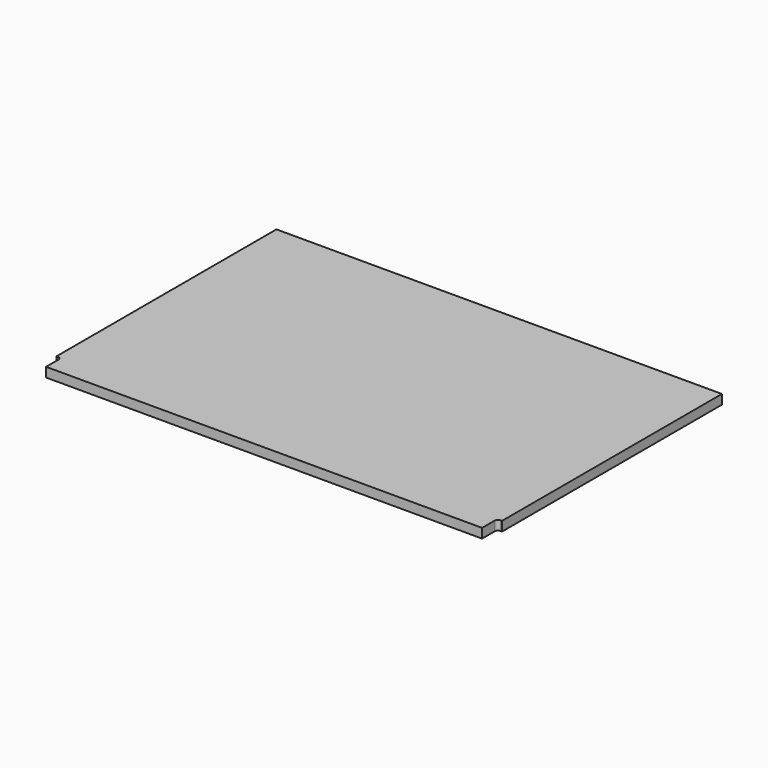
from build123d import *

# Parameters (mm, degrees)
F1_DEPTH = 19.05


with BuildPart() as f1:
    # F0 (on Top) → F1 (new body)
    with BuildSketch(Plane.XY):
        with BuildLine():
            Line((895.35, 0), (0, 0))
            Line((0, 0), (0, -552.45))
            Line((0, -552.45), (3.175, -552.45))
            ThreePointArc((3.175, -552.45), (7.665128, -554.309872), (9.525, -558.8))
            Line((9.525, -558.8), (9.525, -590.55))
            Line((9.525, -590.55), (885.825, -590.55))
            Line((885.825, -590.55), (885.825, -558.8))
            ThreePointArc((885.825, -558.8), (887.684872, -554.309872), (892.175, -552.45))
            Line((892.175, -552.45), (895.35, -552.45))
            Line((895.35, -552.45), (895.35, 0))
        make_face()
    extrude(amount=F1_DEPTH)


solid = f1.part
